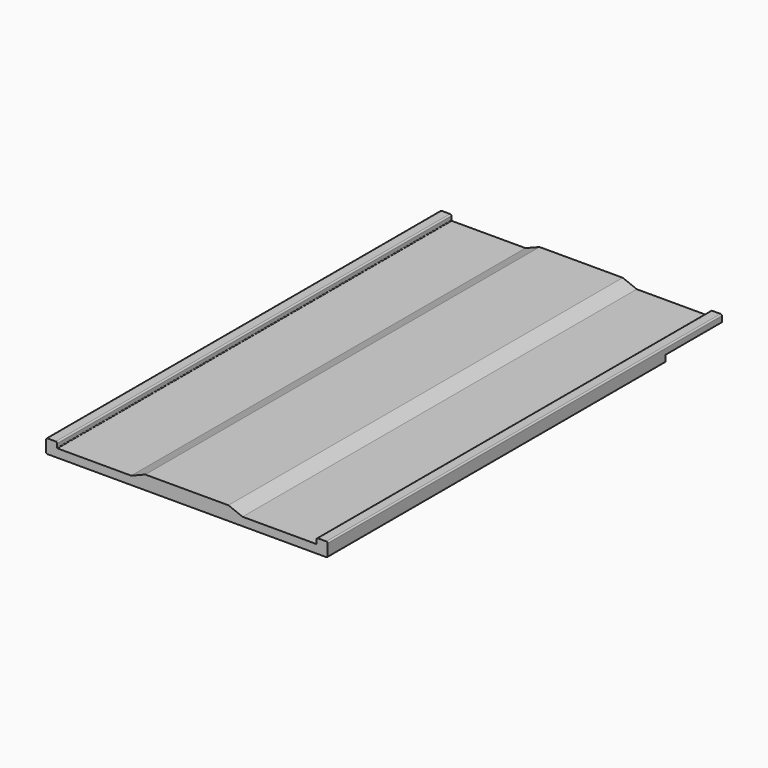
from build123d import *

# Parameters (mm, degrees)
F1_DEPTH = 177.8
F3_DEPTH = 25.4


with BuildPart() as f1:
    # F0 (on Front) → F1 (new body)
    with BuildSketch(Plane.XZ):
        with BuildLine():
            ThreePointArc((0, 0.5), (0.146447, 0.146447), (0.5, 0))
            Line((0.5, 0), (101.1, 0))
            ThreePointArc((101.1, 0), (101.453553, 0.146447), (101.6, 0.5))
            Line((101.6, 0.5), (101.6, 4.5))
            ThreePointArc((101.6, 4.5), (101.453553, 4.853553), (101.1, 5))
            Line((101.1, 5), (98.1, 5))
            ThreePointArc((98.1, 5), (97.746447, 4.853553), (97.6, 4.5))
            Line((97.6, 4.5), (97.6, 3.2))
            ThreePointArc((97.6, 3.2), (97.541421, 3.058579), (97.4, 3))
            Line((97.4, 3), (70.88, 3))
            Line((70.88, 3), (65.8, 5))
            Line((65.8, 5), (35.8, 5))
            Line((35.8, 5), (30.72, 3))
            Line((30.72, 3), (4.2, 3))
            ThreePointArc((4.2, 3), (4.058579, 3.058579), (4, 3.2))
            Line((4, 3.2), (4, 4.5))
            ThreePointArc((4, 4.5), (3.853553, 4.853553), (3.5, 5))
            Line((3.5, 5), (0.5, 5))
            ThreePointArc((0.5, 5), (0.146447, 4.853553), (0, 4.5))
            Line((0, 4.5), (0, 0.5))
        make_face()
    extrude(amount=F1_DEPTH)

    # F2 (on face) → F3 (cut)
    with BuildSketch(Plane(origin=(0, 0, 0), x_dir=(-1, 0, 0), z_dir=(0, 1, 0))):
        with BuildLine():
            Line((0, 2.5), (-101.6, 2.5))
            Line((-101.6, 2.5), (-101.6, 0.5))
            ThreePointArc((-101.6, 0.5), (-101.453553, 0.146447), (-101.1, 0))
            Line((-101.1, 0), (-0.5, 0))
            ThreePointArc((-0.5, 0), (-0.146447, 0.146447), (0, 0.5))
            Line((0, 0.5), (0, 2.5))
        make_face()
    extrude(amount=-F3_DEPTH, mode=Mode.SUBTRACT)


solid = f1.part
